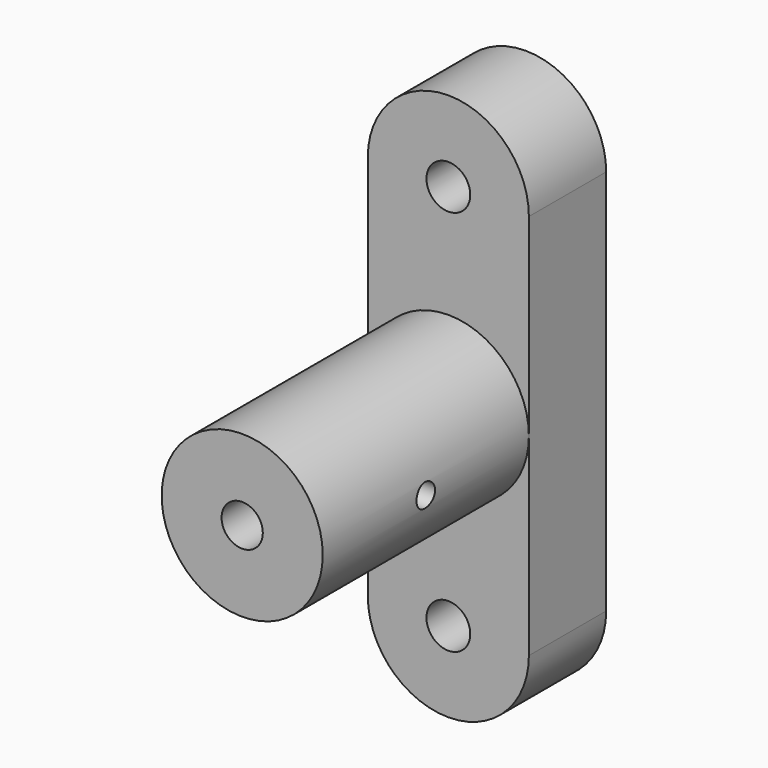
from build123d import *

# Parameters (mm, degrees)
F1_DEPTH = 9.525
F2_R     = 7.9375
F3_DEPTH = 25.4
F4_R     = 2.032
F5_DEPTH = 34.926
F6_R     = 1.143
F7_DEPTH = 25.4


with BuildPart() as f1:
    # F0 (on Front) → F1 (new body)
    with BuildSketch(Plane.XZ):
        with BuildLine():
            Line((7.9375, -19.05), (7.9375, 19.05))
            Line((7.9375, 19.05), (2.159, 19.05))
            ThreePointArc((2.159, 19.05), (0, 16.891), (-2.159, 19.05))
            Line((-2.159, 19.05), (-7.9375, 19.05))
            Line((-7.9375, 19.05), (-7.9375, -19.05))
            Line((-7.9375, -19.05), (-2.159, -19.05))
            ThreePointArc((-2.159, -19.05), (0, -16.891), (2.159, -19.05))
            Line((2.159, -19.05), (7.9375, -19.05))
        make_face()
        with BuildLine():
            Line((2.159, 19.05), (7.9375, 19.05))
            ThreePointArc((7.9375, 19.05), (0, 26.9875), (-7.9375, 19.05))
            Line((-7.9375, 19.05), (-2.159, 19.05))
            ThreePointArc((-2.159, 19.05), (0, 21.209), (2.159, 19.05))
        make_face()
        with BuildLine():
            ThreePointArc((-7.9375, -19.05), (0, -26.9875), (7.9375, -19.05))
            Line((7.9375, -19.05), (2.159, -19.05))
            ThreePointArc((2.159, -19.05), (0, -21.209), (-2.159, -19.05))
            Line((-2.159, -19.05), (-7.9375, -19.05))
        make_face()
    extrude(amount=F1_DEPTH)

    # F2 (on face) → F3 (join)
    with BuildSketch(Plane.XZ.offset(9.525)):
        Circle(F2_R)
    extrude(amount=F3_DEPTH)

    # F4 (on face) → F5 (cut, through all)
    with BuildSketch(Plane.XZ.offset(34.925)):
        Circle(F4_R)
    extrude(amount=-F5_DEPTH, mode=Mode.SUBTRACT)

    # F6 (on face) → F7 (cut)
    with BuildSketch(Plane(origin=(-7.9375, 0, 0), x_dir=(0, -1, 0), z_dir=(-1, 0, 0))):
        with Locations((22.225, 0)):
            Circle(F6_R)
    extrude(amount=-F7_DEPTH, mode=Mode.SUBTRACT)


solid = f1.part
